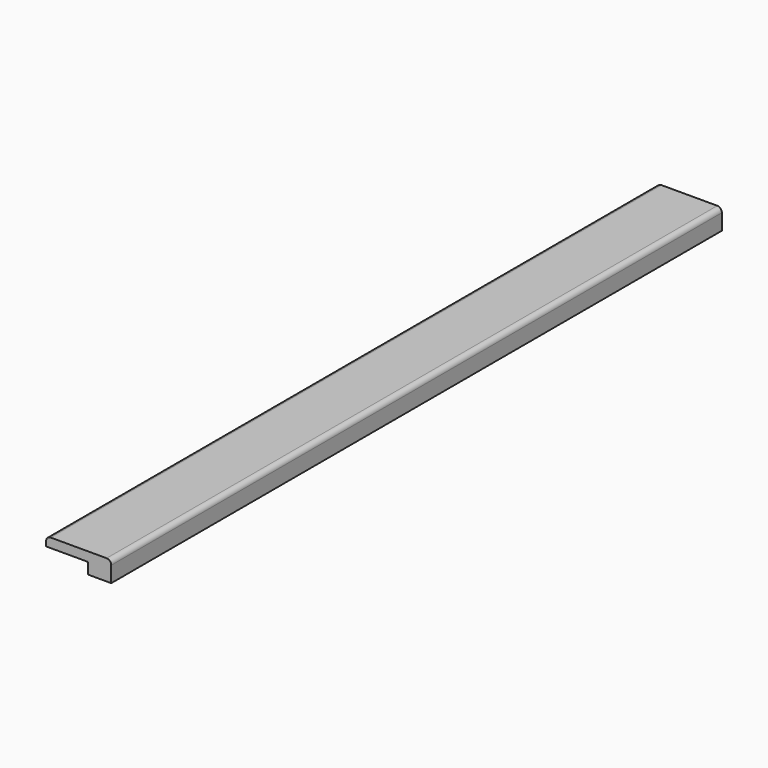
from build123d import *

# Parameters (mm, degrees)
F1_DEPTH = 820


with BuildPart() as f1:
    # F0 (on Front) → F1 (new body)
    with BuildSketch(Plane.XZ):
        with BuildLine():
            Line((0, 5), (0, 0))
            Line((0, 0), (45, 0))
            Line((45, 0), (45, -12))
            Line((45, -12), (70, -12))
            Line((70, -12), (70, 5))
            ThreePointArc((70, 5), (68.535534, 8.535534), (65, 10))
            Line((65, 10), (5, 10))
            ThreePointArc((5, 10), (1.464466, 8.535534), (0, 5))
        make_face()
    extrude(amount=F1_DEPTH)


solid = f1.part
